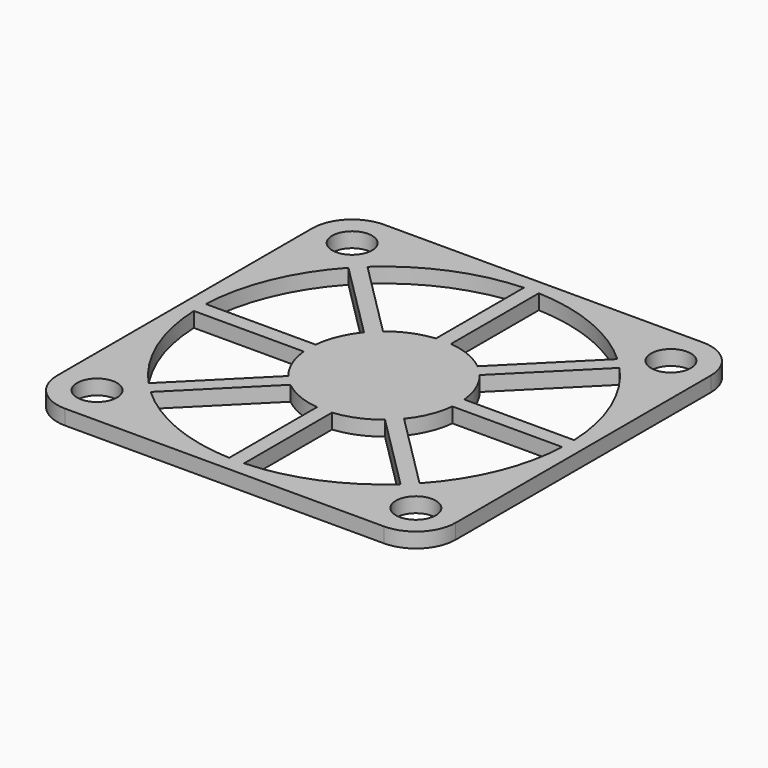
from build123d import *

# Parameters (mm, degrees)
F0_W     = 40
F0_H     = 40
F0_R     = 2
F1_DEPTH = 1.5
F2_W     = 40
F2_H     = 40
F3_DEPTH = 25
F4_R     = 4


with BuildPart() as f1:
    # F0 (on Top) → F1 (new body)
    with BuildSketch(Plane.XY):
        Rectangle(F0_W, F0_H)
        with Locations((-16, -16)):
            Circle(F0_R, mode=Mode.SUBTRACT)
        with Locations((16, -16)):
            Circle(F0_R, mode=Mode.SUBTRACT)
        with Locations((-16, 16)):
            Circle(F0_R, mode=Mode.SUBTRACT)
        with Locations((16, 16)):
            Circle(F0_R, mode=Mode.SUBTRACT)
    extrude(amount=F1_DEPTH)

    # F2 (on Top) → F3 (intersect)
    with BuildSketch(Plane.XY):
        Rectangle(F2_W, F2_H)
        with BuildLine():
            Line((-12.540391, -13.601051), (-4.746388, -5.807048))
            ThreePointArc((-4.746388, -5.807048), (-2.870126, -6.929096), (-0.75, -7.462406))
            Line((-0.75, -7.462406), (-0.75, -18.484791))
            ThreePointArc((-0.75, -18.484791), (-7.079643, -17.091771), (-12.540391, -13.601051))
        make_face(mode=Mode.SUBTRACT)
        with BuildLine():
            Line((-18.484791, -0.75), (-7.462406, -0.75))
            ThreePointArc((-7.462406, -0.75), (-6.929096, -2.870126), (-5.807048, -4.746388))
            Line((-5.807048, -4.746388), (-13.601051, -12.540391))
            ThreePointArc((-13.601051, -12.540391), (-17.091771, -7.079643), (-18.484791, -0.75))
        make_face(mode=Mode.SUBTRACT)
        with BuildLine():
            Line((0.75, -18.484791), (0.75, -7.462406))
            ThreePointArc((0.75, -7.462406), (2.870126, -6.929096), (4.746388, -5.807048))
            Line((4.746388, -5.807048), (12.540391, -13.601051))
            ThreePointArc((12.540391, -13.601051), (7.079643, -17.091771), (0.75, -18.484791))
        make_face(mode=Mode.SUBTRACT)
        with BuildLine():
            Line((13.601051, -12.540391), (5.807048, -4.746388))
            ThreePointArc((5.807048, -4.746388), (6.929096, -2.870126), (7.462406, -0.75))
            Line((7.462406, -0.75), (18.484791, -0.75))
            ThreePointArc((18.484791, -0.75), (17.091771, -7.079643), (13.601051, -12.540391))
        make_face(mode=Mode.SUBTRACT)
        with BuildLine():
            ThreePointArc((-18.484791, 0.75), (-17.091771, 7.079643), (-13.601051, 12.540391))
            Line((-13.601051, 12.540391), (-5.807048, 4.746388))
            ThreePointArc((-5.807048, 4.746388), (-6.929096, 2.870126), (-7.462406, 0.75))
            Line((-7.462406, 0.75), (-18.484791, 0.75))
        make_face(mode=Mode.SUBTRACT)
        with BuildLine():
            ThreePointArc((-12.540391, 13.601051), (-7.079643, 17.091771), (-0.75, 18.484791))
            Line((-0.75, 18.484791), (-0.75, 7.462406))
            ThreePointArc((-0.75, 7.462406), (-2.870126, 6.929096), (-4.746388, 5.807048))
            Line((-4.746388, 5.807048), (-12.540391, 13.601051))
        make_face(mode=Mode.SUBTRACT)
        with BuildLine():
            ThreePointArc((13.601051, 12.540391), (17.091771, 7.079643), (18.484791, 0.75))
            Line((18.484791, 0.75), (7.462406, 0.75))
            ThreePointArc((7.462406, 0.75), (6.929096, 2.870126), (5.807048, 4.746388))
            Line((5.807048, 4.746388), (13.601051, 12.540391))
        make_face(mode=Mode.SUBTRACT)
        with BuildLine():
            Line((0.75, 7.462406), (0.75, 18.484791))
            ThreePointArc((0.75, 18.484791), (7.079643, 17.091771), (12.540391, 13.601051))
            Line((12.540391, 13.601051), (4.746388, 5.807048))
            ThreePointArc((4.746388, 5.807048), (2.870126, 6.929096), (0.75, 7.462406))
        make_face(mode=Mode.SUBTRACT)
    extrude(amount=F3_DEPTH, mode=Mode.INTERSECT)

    # F4
    f4_edges = [f1.edges().sort_by_distance(p)[0] for p in [
        (-20, 20, 0.75),
        (20, 20, 0.75),
        (-20, -20, 0.75),
        (20, -20, 0.75),
    ]]
    fillet(f4_edges, radius=F4_R)


solid = f1.part
